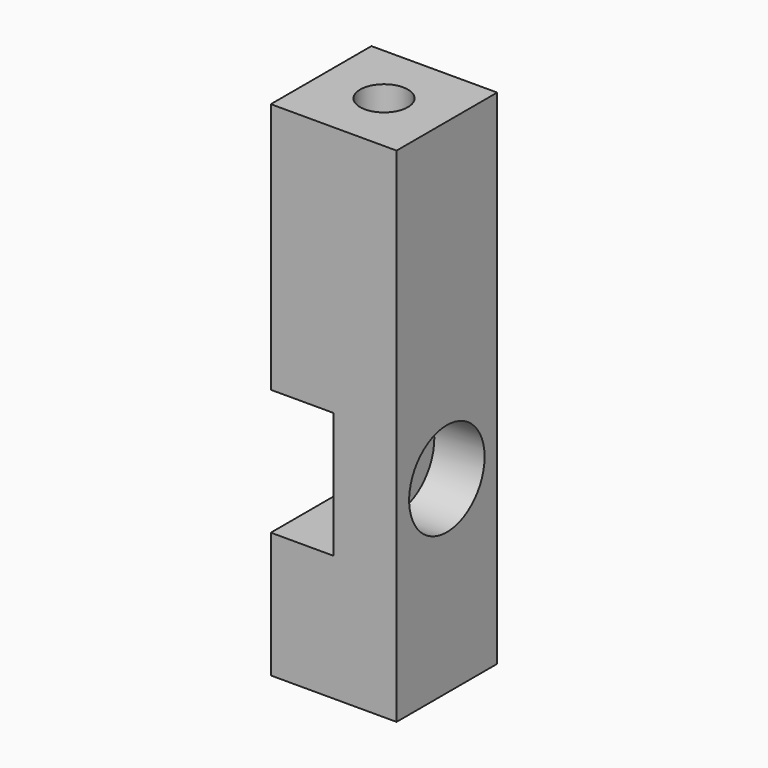
from build123d import *

# Parameters (mm, degrees)
F0_W      = 12.7
F0_H      = 50.8
F1_DEPTH  = 12.7
F2_W      = 6.35
F2_H      = 12.7
F3_DEPTH  = 12.701
F4_R      = 2.794
F5_DEPTH  = 6.351
F6_R      = 4.7625
F7_DEPTH  = 5.08
F8_R      = 2.413
F9_DEPTH  = 9.525
F10_R     = 2.413
F11_DEPTH = 9.525


with BuildPart() as f1:
    # F0 (on Right) → F1 (new body)
    with BuildSketch(Plane.YZ):
        with Locations((-6.35, 0)):
            Rectangle(F0_W, F0_H)
    extrude(amount=F1_DEPTH)

    # F2 (on face) → F3 (cut, through all)
    with BuildSketch(Plane(origin=(0, 0, 0), x_dir=(-1, 0, 0), z_dir=(0, 1, 0))):
        with Locations((-3.175, -6.35)):
            Rectangle(F2_W, F2_H)
    extrude(amount=-F3_DEPTH, mode=Mode.SUBTRACT)

    # F4 (on face) → F5 (cut, through all)
    with BuildSketch(Plane(origin=(6.35, 0, 0), x_dir=(0, -1, 0), z_dir=(-1, 0, 0))):
        with Locations((6.35, -6.35)):
            Circle(F4_R)
    extrude(amount=-F5_DEPTH, mode=Mode.SUBTRACT)

    # F6 (on face) → F7 (cut)
    with BuildSketch(Plane.YZ.offset(12.7)):
        with Locations((-6.35, -6.35)):
            Circle(F6_R)
    extrude(amount=-F7_DEPTH, mode=Mode.SUBTRACT)

    # F8 (on face) → F9 (cut)
    with BuildSketch(Plane.XY.offset(25.4)):
        with Locations((6.35, -6.35)):
            Circle(F8_R)
    extrude(amount=-F9_DEPTH, mode=Mode.SUBTRACT)

    # F10 (on face) → F11 (cut)
    with BuildSketch(Plane(origin=(0, 0, -25.4), x_dir=(1, 0, 0), z_dir=(0, 0, -1))):
        with Locations((6.35, 6.35)):
            Circle(F10_R)
    extrude(amount=-F11_DEPTH, mode=Mode.SUBTRACT)


solid = f1.part
